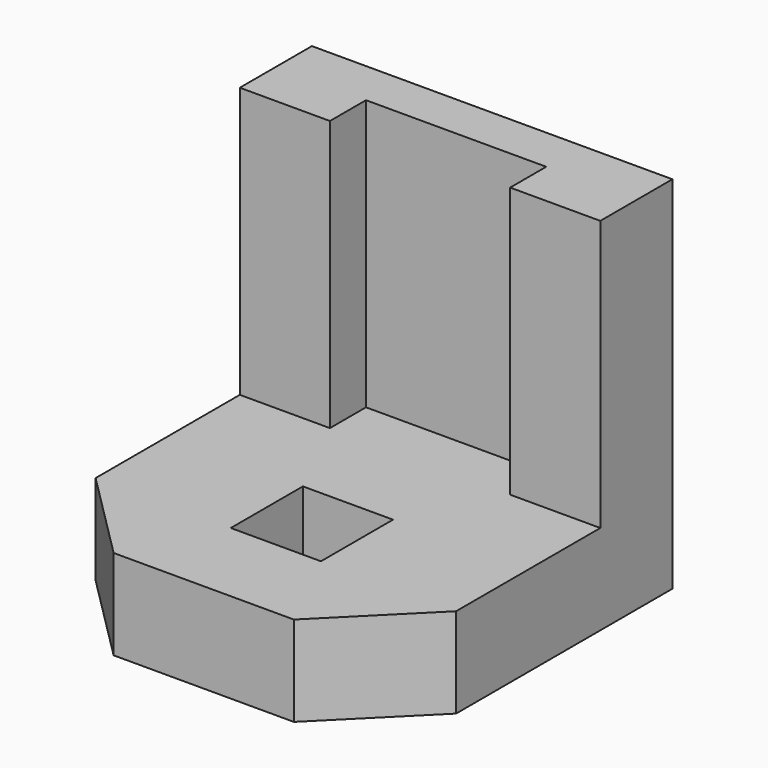
from build123d import *

# Parameters (mm, degrees)
F0_W     = 101.6
F0_H     = 101.6
F1_DEPTH = 101.6
F2_W     = 101.6
F2_H     = 76.2
F3_DEPTH = 76.2
F4_W     = 50.8
F4_H     = 12.7
F5_DEPTH = 76.2
F6_W     = 25.4
F6_H     = 25.4
F7_DEPTH = 75.438
F9_DEPTH = 57.912


with BuildPart() as f1:
    # F0 (on Top) → F1 (new body)
    with BuildSketch(Plane.XY):
        with Locations((-0.078824, 11.495703)):
            Rectangle(F0_W, F0_H)
    extrude(amount=F1_DEPTH)

    # F2 (on face) → F3 (cut)
    with BuildSketch(Plane.XY.offset(101.6)):
        with Locations((-0.078824, -1.204297)):
            Rectangle(F2_W, F2_H)
    extrude(amount=-F3_DEPTH, mode=Mode.SUBTRACT)

    # F4 (on face) → F5 (cut)
    with BuildSketch(Plane.XY.offset(101.6)):
        with Locations((-0.078824, 43.245703)):
            Rectangle(F4_W, F4_H)
    extrude(amount=-F5_DEPTH, mode=Mode.SUBTRACT)

    # F6 (on face) → F7 (cut)
    with BuildSketch(Plane.XY.offset(25.4)):
        with Locations((-0.078824, -1.204297)):
            Rectangle(F6_W, F6_H)
    extrude(amount=-F7_DEPTH, mode=Mode.SUBTRACT)

    # F8 (on face) → F9 (cut)
    with BuildSketch(Plane.XY.offset(25.4)):
        Polygon((-50.878824, -13.904297), (-50.878824, -39.304297), (-25.478824, -39.304297), align=None)
        Polygon((25.321176, -39.304297), (50.721176, -39.304297), (50.721176, -13.904297), align=None)
    extrude(amount=-F9_DEPTH, mode=Mode.SUBTRACT)


solid = f1.part
